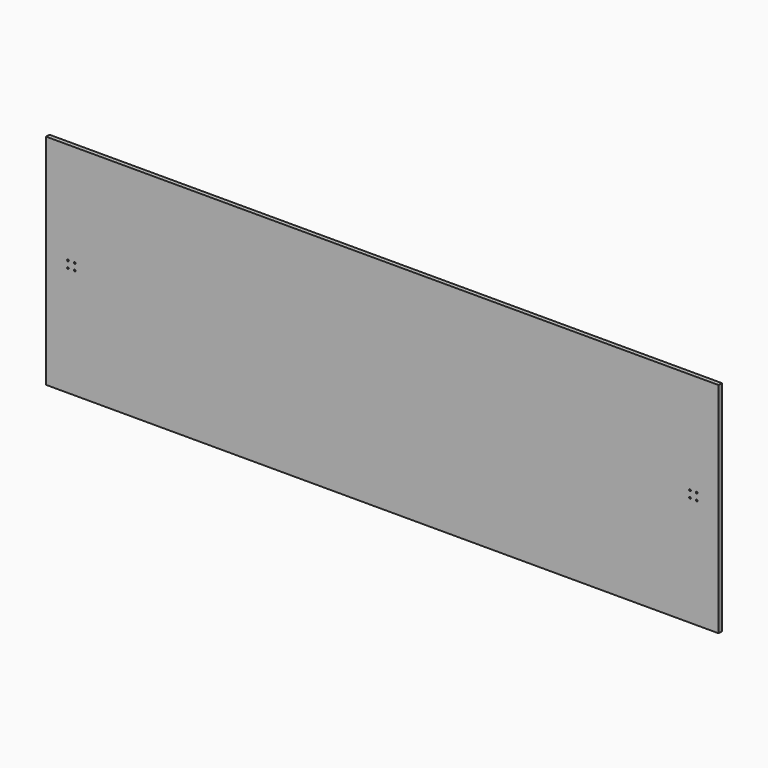
from build123d import *

# Parameters (mm, degrees)
F0_W     = 4000
F0_H     = 1300
F1_DEPTH = 25
F3_D     = 10
F4_D     = 10


with BuildPart() as f1:
    # F0 (on Front) → F1 (new body)
    with BuildSketch(Plane.XZ):
        Rectangle(F0_W, F0_H)
    extrude(amount=F1_DEPTH)

    # F3 (through all)
    with Locations(Plane.XZ.offset(25)):
        with Locations((-1870, 44), (-1830, 44), (-1830, 4), (-1870, 4)):
            Hole(F3_D / 2)

    # F4 (through all)
    with Locations(Plane.XZ.offset(25)):
        with Locations((1830, 44), (1870, 44), (1870, 4), (1830, 4)):
            Hole(F4_D / 2)


solid = f1.part
